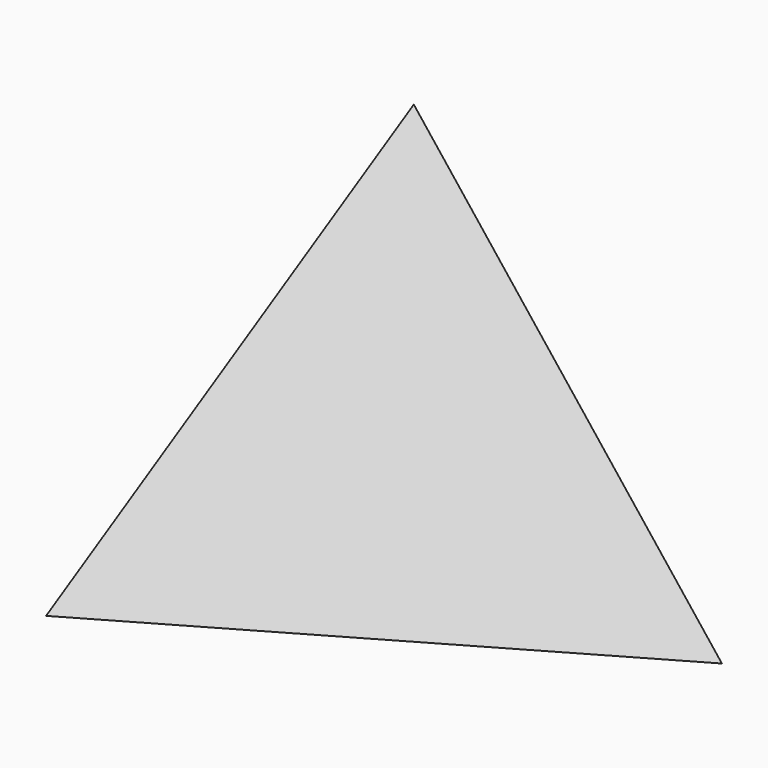
from build123d import *


with BuildPart() as f3:
    # F0 (on Top) → F3 section 0
    with BuildSketch(Plane.XY, mode=Mode.PRIVATE) as f3_s0:
        Polygon((78.658495, -0.029984), (-39.30328, 68.135247), (-39.355214, -68.105263), align=None)
    loft([f3_s0.sketch, Vertex(0, 0, 100)])


solid = f3.part
